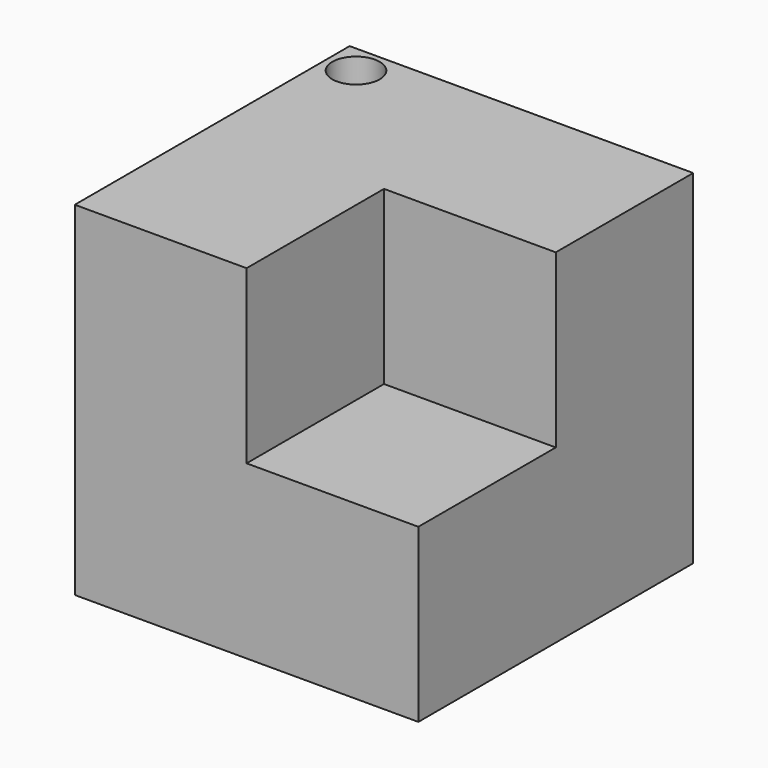
from build123d import *

# Parameters (mm, degrees)
F0_W     = 101.6
F0_H     = 101.6
F1_DEPTH = 101.6
F2_R     = 7.011592
F3_DEPTH = 101.6
F4_W     = 50.8
F4_H     = 50.8
F5_DEPTH = 50.8


with BuildPart() as f1:
    # F0 (on Front) → F1 (new body)
    with BuildSketch(Plane.XZ):
        with Locations((-50.8, 50.8)):
            Rectangle(F0_W, F0_H)
    extrude(amount=F1_DEPTH)

    # F2 (on face) → F3 (cut)
    with BuildSketch(Plane.XY.offset(101.6)):
        with Locations((-92.807561, -8.640565)):
            Circle(F2_R)
    extrude(amount=-F3_DEPTH, mode=Mode.SUBTRACT)

    # F4 (on face) → F5 (cut)
    with BuildSketch(Plane.XY.offset(101.6)):
        with Locations((-25.4, -76.2)):
            Rectangle(F4_W, F4_H)
    extrude(amount=-F5_DEPTH, mode=Mode.SUBTRACT)


solid = f1.part
